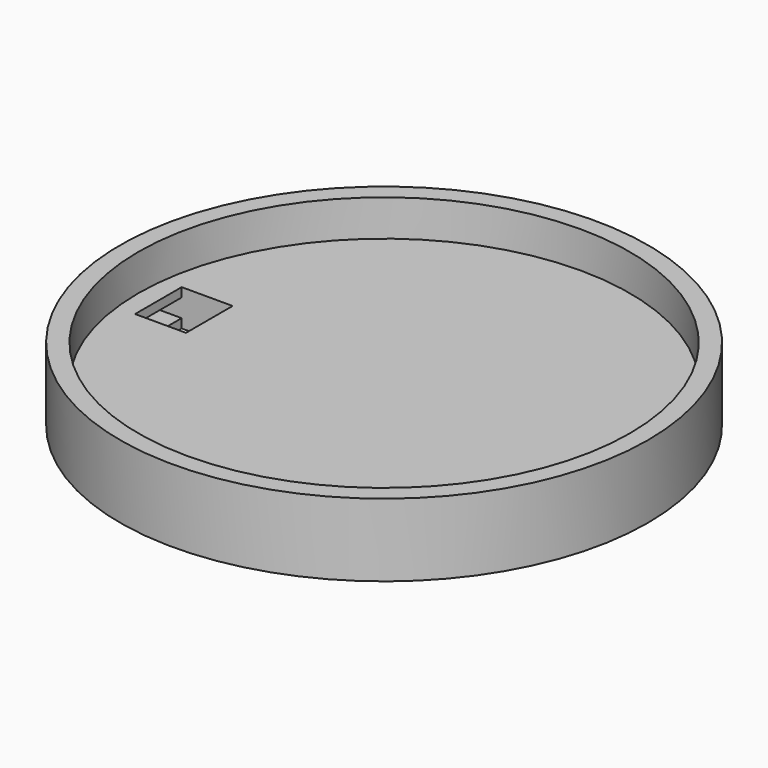
from build123d import *

# Parameters (mm, degrees)
F0_R     = 46.0375
F0_R_2   = 42.8625
F1_DEPTH = 12.7
F0_W     = 8.89
F0_H     = 10.16
F2_DEPTH = 6.35
F3_W     = 10.16
F3_H     = 3.175
F4_DEPTH = 6.6685


with BuildPart() as f1:
    # F0 (on Top) → F1 (new body)
    with BuildSketch(Plane.XY):
        Circle(F0_R)
        Circle(F0_R_2, mode=Mode.SUBTRACT)
    extrude(amount=F1_DEPTH)

    # F0 (on Top) → F2 (join)
    with BuildSketch(Plane.XY):
        Circle(F0_R_2)
        with Locations((-34.925, 0)):
            Rectangle(F0_W, F0_H, mode=Mode.SUBTRACT)
    extrude(amount=F2_DEPTH)

    # F3 (on face) → F4 (cut, through all)
    with BuildSketch(Plane.YZ.offset(-39.37)):
        with Locations((0, 3.175)):
            Rectangle(F3_W, F3_H)
    extrude(amount=-F4_DEPTH, mode=Mode.SUBTRACT)


solid = f1.part
